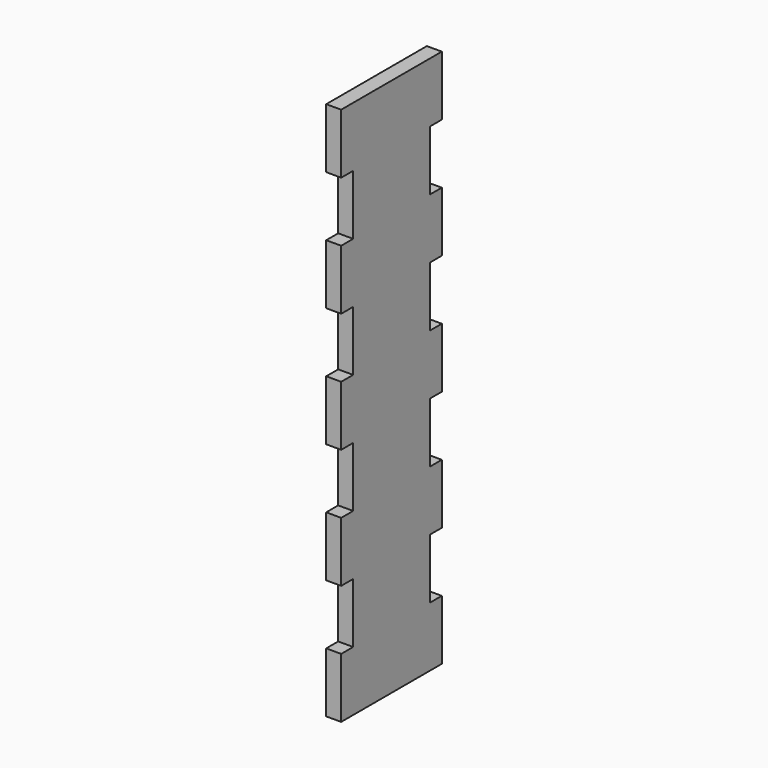
from build123d import *

# Parameters (mm, degrees)
F1_DEPTH = 3.175


with BuildPart() as f1:
    # F0 (on Right) → F1 (new body)
    with BuildSketch(Plane.YZ):
        Polygon((13.335, 57.15), (-13.335, 57.15), (-13.335, 44.45), (-10.16, 44.45), (-10.16, 31.75), (-13.335, 31.75), (-13.335, 19.05), (-10.16, 19.05), (-10.16, 6.35), (-13.335, 6.35), (-13.335, -6.35), (-10.16, -6.35), (-10.16, -19.05), (-13.335, -19.05), (-13.335, -31.75), (-10.16, -31.75), (-10.16, -44.45), (-13.335, -44.45), (-13.335, -57.15), (13.335, -57.15), (13.335, -44.45), (10.16, -44.45), (10.16, -31.75), (13.335, -31.75), (13.335, -19.05), (10.16, -19.05), (10.16, -6.35), (13.335, -6.35), (13.335, 6.35), (10.16, 6.35), (10.16, 19.05), (13.335, 19.05), (13.335, 31.75), (10.16, 31.75), (10.16, 44.45), (13.335, 44.45), align=None)
    extrude(amount=F1_DEPTH)


solid = f1.part
